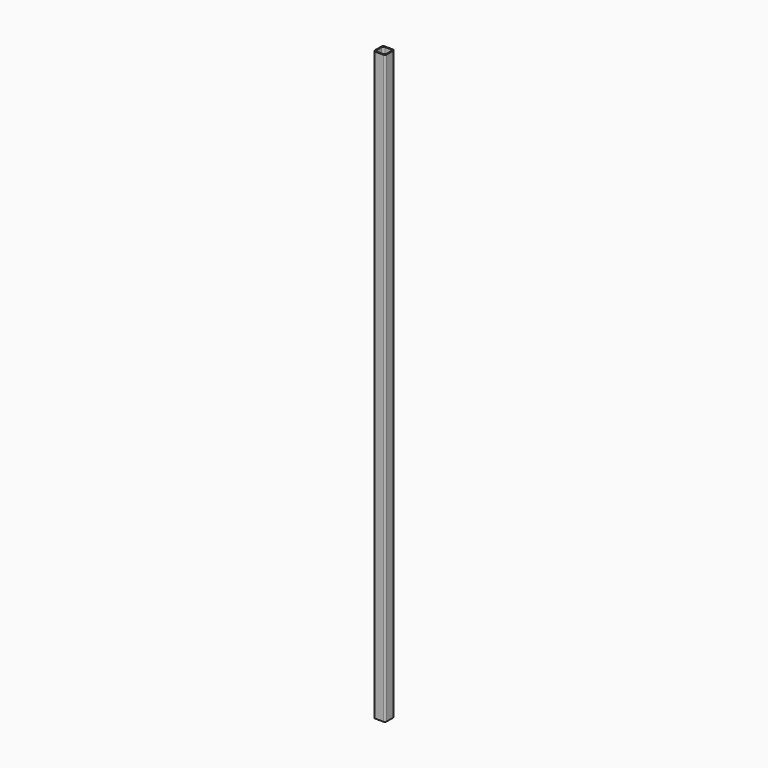
from build123d import *

# Parameters (mm, degrees)
F1_DEPTH = 500
F2_DEPTH = 500


with BuildPart() as f1:
    # F0 (on Top) → F1 (new body)
    with BuildSketch(Plane.XY):
        with BuildLine():
            Line((-11.280548, 28.814377), (-18.322457, 28.814377))
            ThreePointArc((-18.322457, 28.814377), (-19.3683, 28.381175), (-19.801502, 27.335332))
            Line((-19.801502, 27.335332), (-19.801502, 20.293423))
            ThreePointArc((-19.801502, 20.293423), (-19.3683, 19.24758), (-18.322457, 18.814377))
            Line((-18.322457, 18.814377), (-11.280548, 18.814377))
            ThreePointArc((-11.280548, 18.814377), (-10.234705, 19.24758), (-9.801502, 20.293423))
            Line((-9.801502, 20.293423), (-9.801502, 27.335332))
            ThreePointArc((-9.801502, 27.335332), (-10.234705, 28.381175), (-11.280548, 28.814377))
        make_face()
        with BuildLine():
            ThreePointArc((-19.001502, 26.535331), (-18.568299, 27.581174), (-17.522456, 28.014377))
            Line((-17.522456, 28.014377), (-12.080548, 28.014377))
            ThreePointArc((-12.080548, 28.014377), (-11.034705, 27.581174), (-10.601503, 26.535331))
            Line((-10.601503, 26.535331), (-10.601503, 21.093424))
            ThreePointArc((-10.601503, 21.093424), (-11.034705, 20.047581), (-12.080548, 19.614378))
            Line((-12.080548, 19.614378), (-17.522456, 19.614378))
            ThreePointArc((-17.522456, 19.614378), (-18.568299, 20.047581), (-19.001502, 21.093424))
            Line((-19.001502, 21.093424), (-19.001502, 26.535331))
        make_face(mode=Mode.SUBTRACT)
    extrude(amount=F1_DEPTH)


with BuildPart() as f2:
    # F0 (on Top) → F2 (new body)
    with BuildSketch(Plane.XY):
        with BuildLine():
            Line((-11.280548, 28.814377), (-18.322457, 28.814377))
            ThreePointArc((-18.322457, 28.814377), (-19.3683, 28.381175), (-19.801502, 27.335332))
            Line((-19.801502, 27.335332), (-19.801502, 20.293423))
            ThreePointArc((-19.801502, 20.293423), (-19.3683, 19.24758), (-18.322457, 18.814377))
            Line((-18.322457, 18.814377), (-11.280548, 18.814377))
            ThreePointArc((-11.280548, 18.814377), (-10.234705, 19.24758), (-9.801502, 20.293423))
            Line((-9.801502, 20.293423), (-9.801502, 27.335332))
            ThreePointArc((-9.801502, 27.335332), (-10.234705, 28.381175), (-11.280548, 28.814377))
        make_face()
        with BuildLine():
            ThreePointArc((-19.001502, 26.535331), (-18.568299, 27.581174), (-17.522456, 28.014377))
            Line((-17.522456, 28.014377), (-12.080548, 28.014377))
            ThreePointArc((-12.080548, 28.014377), (-11.034705, 27.581174), (-10.601503, 26.535331))
            Line((-10.601503, 26.535331), (-10.601503, 21.093424))
            ThreePointArc((-10.601503, 21.093424), (-11.034705, 20.047581), (-12.080548, 19.614378))
            Line((-12.080548, 19.614378), (-17.522456, 19.614378))
            ThreePointArc((-17.522456, 19.614378), (-18.568299, 20.047581), (-19.001502, 21.093424))
            Line((-19.001502, 21.093424), (-19.001502, 26.535331))
        make_face(mode=Mode.SUBTRACT)
    extrude(amount=F2_DEPTH)


solid = Compound([f1.part, f2.part])
